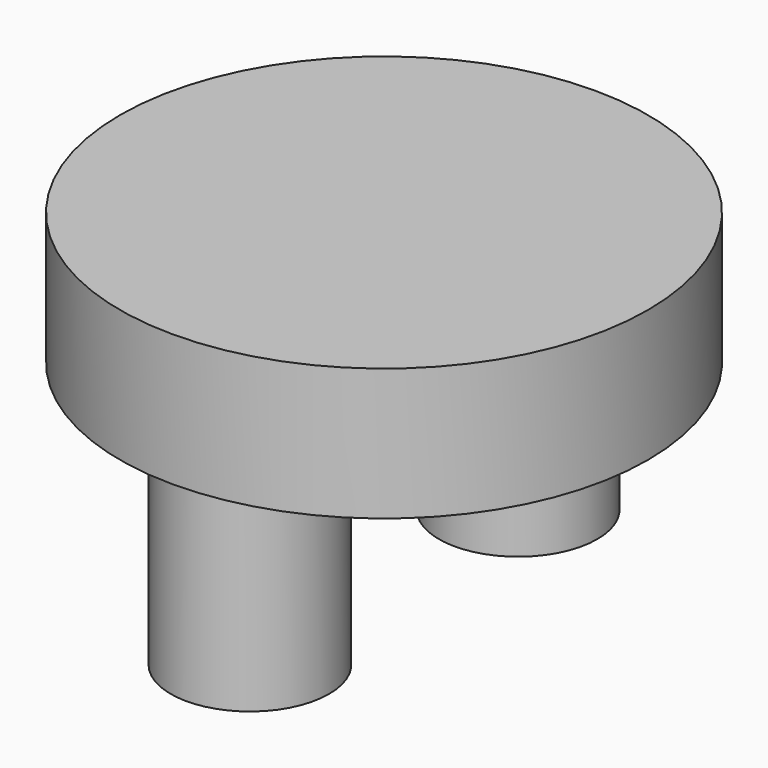
from build123d import *

# Parameters (mm, degrees)
CYLINDER003_R     = 0.6
CYLINDER003_DEPTH = 2.5
CYLINDER004_R     = 0.6
CYLINDER004_DEPTH = 2.5
CYLINDER002_R     = 2
CYLINDER002_DEPTH = 1


with BuildPart() as cylinder003:
    # Cylinder003 → Cylinder003 (new body)
    with BuildSketch(Plane(origin=(0, 1.27, 0), x_dir=(1, 0, 0), z_dir=(0, 0, 1))):
        Circle(CYLINDER003_R)
    extrude(amount=CYLINDER003_DEPTH)


with BuildPart() as cylinder004:
    # Cylinder004 → Cylinder004 (new body)
    with BuildSketch(Plane(origin=(0, -1.27, 0), x_dir=(1, 0, 0), z_dir=(0, 0, 1))):
        Circle(CYLINDER004_R)
    extrude(amount=CYLINDER004_DEPTH)


with BuildPart() as led_slot_template:
    # Cylinder002 → Cylinder002 (new body)
    with BuildSketch(Plane.XY.offset(1.5)):
        Circle(CYLINDER002_R)
    extrude(amount=CYLINDER002_DEPTH)

    # Fusion: union Cylinder003, Cylinder004
    add(cylinder003.part)
    add(cylinder004.part)


solid = led_slot_template.part
